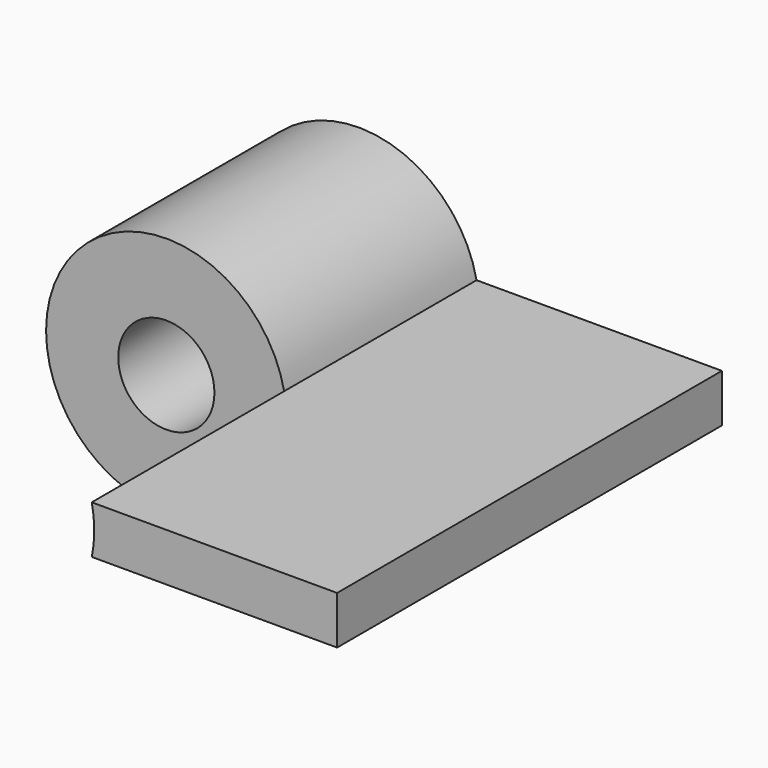
from build123d import *

# Parameters (mm, degrees)
F0_R     = 10
F1_DEPTH = 50
F2_DEPTH = 100


with BuildPart() as f1:
    # F0 (on Front) → F1 (new body)
    with BuildSketch(Plane.XZ):
        with BuildLine():
            ThreePointArc((24.494897, -5), (24.873404, -2.512724), (25, 0))
            ThreePointArc((25, 0), (24.873404, 2.512724), (24.494897, 5))
            ThreePointArc((24.494897, 5), (-25, 0), (24.494897, -5))
        make_face()
        Circle(F0_R, mode=Mode.SUBTRACT)
    extrude(amount=F1_DEPTH)

    # F0 (on Front) → F2 (join)
    with BuildSketch(Plane.XZ):
        with BuildLine():
            ThreePointArc((24.494897, 5), (24.873404, 2.512724), (25, 0))
            ThreePointArc((25, 0), (24.873404, -2.512724), (24.494897, -5))
            Line((24.494897, -5), (75.505103, -5))
            Line((75.505103, -5), (75.505103, 5))
            Line((75.505103, 5), (24.494897, 5))
        make_face()
    extrude(amount=F2_DEPTH)


solid = f1.part
